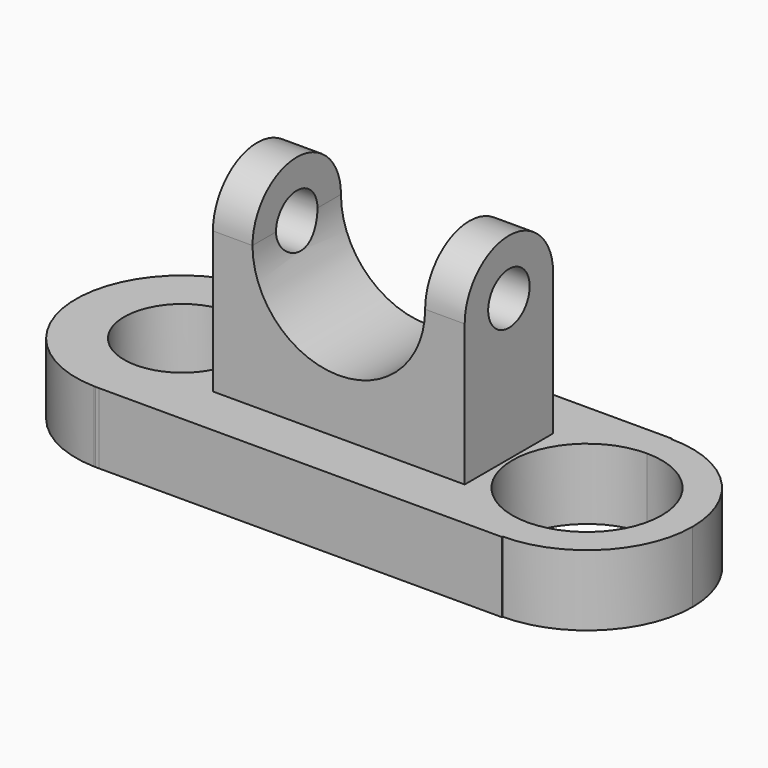
from build123d import *

# Parameters (mm, degrees)
F1_DEPTH  = 76.2
F2_DEPTH  = 25.4
F3_R      = 31.0113659553
F4_DEPTH  = 48.768
F5_W      = 14.2128238031
F5_H      = 19.8651105165
F7_W      = 14.2128238031
F7_H      = 19.8651105165
F9_R      = 9.3175662763
F10_DEPTH = 120.904


with BuildPart() as f1:
    # F0 (on Top) → F1 (new body)
    with BuildSketch(Plane.XY):
        with BuildLine():
            ThreePointArc((-39.4395748653, 19.8651105165), (-35.2913919529, 10.3150682913), (-33.8736140697, 0))
            ThreePointArc((-33.8736140697, 0), (-35.2913919529, -10.3150682913), (-39.4395748653, -19.8651105165))
            Line((-39.4395748653, -19.8651105165), (41.0163370235, -19.8651105165))
            ThreePointArc((41.0163370235, -19.8651105165), (35.3919404434, 0), (41.0163370235, 19.8651105165))
            Line((41.0163370235, 19.8651105165), (-39.4395748653, 19.8651105165))
        make_face()
        with BuildLine():
            ThreePointArc((-39.4395748653, -19.8651105165), (-35.2913919529, -10.3150682913), (-33.8736140697, 0))
            ThreePointArc((-33.8736140697, 0), (-35.2913919529, 10.3150682913), (-39.4395748653, 19.8651105165))
            Line((-39.4395748653, 19.8651105165), (-45.2241897583, 19.8651105165))
            Line((-45.2241897583, 19.8651105165), (-45.2241897583, -19.8651105165))
            Line((-45.2241897583, -19.8651105165), (-39.4395748653, -19.8651105165))
        make_face()
        with BuildLine():
            Line((45.2241897583, 19.8651105165), (41.0163370235, 19.8651105165))
            ThreePointArc((41.0163370235, 19.8651105165), (35.3919404434, 0), (41.0163370235, -19.8651105165))
            Line((41.0163370235, -19.8651105165), (45.2241897583, -19.8651105165))
            Line((45.2241897583, -19.8651105165), (45.2241897583, 19.8651105165))
        make_face()
    extrude(amount=F1_DEPTH)

    # F0 (on Top) → F2 (join)
    with BuildSketch(Plane.XY):
        with BuildLine():
            Line((-45.2241897583, 19.8651105165), (-39.4395748653, 19.8651105165))
            ThreePointArc((-39.4395748653, 19.8651105165), (-53.1034448807, 33.1757028633), (-71.4977306772, 38.2277779281))
            Line((-71.4977306772, 38.2277779281), (-72.7147387814, 38.2277779281))
            ThreePointArc((-72.7147387814, 38.2277779281), (-73.0001282654, 38.2221694419), (-73.2854679227, 38.2144304102))
            Line((-73.2854679227, 38.2144304102), (-73.2854679227, 20.8573796838))
            ThreePointArc((-73.2854679227, 20.8573796838), (-57.7572646523, 15.1831464436), (-51.2155459374, 0))
            ThreePointArc((-51.2155459374, 0), (-57.7572646523, -15.1831464436), (-73.2854679227, -20.8573796838))
            Line((-73.2854679227, -20.8573796838), (-73.2854679227, -38.2144304102))
            ThreePointArc((-73.2854679227, -38.2144304102), (-73.0001282654, -38.2221694419), (-72.7147387814, -38.2277779281))
            Line((-72.7147387814, -38.2277779281), (-71.4977306772, -38.2277779281))
            ThreePointArc((-71.4977306772, -38.2277779281), (-53.1034448807, -33.1757028633), (-39.4395748653, -19.8651105165))
            Line((-39.4395748653, -19.8651105165), (-45.2241897583, -19.8651105165))
            Line((-45.2241897583, -19.8651105165), (-45.2241897583, 19.8651105165))
        make_face()
        with BuildLine():
            ThreePointArc((-71.4977306772, 38.2277779281), (-53.1034448807, 33.1757028633), (-39.4395748653, 19.8651105165))
            Line((-39.4395748653, 19.8651105165), (41.0163370235, 19.8651105165))
            ThreePointArc((41.0163370235, 19.8651105165), (54.80358066, 33.0807990839), (73.2854679227, 37.8935274793))
            Line((73.2854679227, 37.8935274793), (73.2854679227, 38.2277779281))
            Line((73.2854679227, 38.2277779281), (-71.4977306772, 38.2277779281))
        make_face()
        with BuildLine():
            Line((41.0163370235, -19.8651105165), (-39.4395748653, -19.8651105165))
            ThreePointArc((-39.4395748653, -19.8651105165), (-53.1034448807, -33.1757028633), (-71.4977306772, -38.2277779281))
            Line((-71.4977306772, -38.2277779281), (73.2854679227, -38.2277779281))
            Line((73.2854679227, -38.2277779281), (73.2854679227, -37.8935274793))
            ThreePointArc((73.2854679227, -37.8935274793), (54.80358066, -33.0807990839), (41.0163370235, -19.8651105165))
        make_face()
        with BuildLine():
            Line((-72.7147387814, 38.2277779281), (-71.4977306772, 38.2277779281))
            ThreePointArc((-71.4977306772, 38.2277779281), (-72.1062347293, 38.2326206596), (-72.7147387814, 38.2277779281))
        make_face()
        with BuildLine():
            ThreePointArc((73.2854679227, 37.8935274793), (54.80358066, 33.0807990839), (41.0163370235, 19.8651105165))
            Line((41.0163370235, 19.8651105165), (45.2241897583, 19.8651105165))
            Line((45.2241897583, 19.8651105165), (45.2241897583, -19.8651105165))
            Line((45.2241897583, -19.8651105165), (41.0163370235, -19.8651105165))
            ThreePointArc((41.0163370235, -19.8651105165), (54.80358066, -33.0807990839), (73.2854679227, -37.8935274793))
            Line((73.2854679227, -37.8935274793), (73.2854679227, -26.8271780999))
            ThreePointArc((73.2854679227, -26.8271780999), (46.4582898228, 0), (73.2854679227, 26.8271780999))
            Line((73.2854679227, 26.8271780999), (73.2854679227, 37.8935274793))
        make_face()
        with BuildLine():
            ThreePointArc((-72.7147387814, -38.2277779281), (-72.1062347293, -38.2326206596), (-71.4977306772, -38.2277779281))
            Line((-71.4977306772, -38.2277779281), (-72.7147387814, -38.2277779281))
        make_face()
        with BuildLine():
            ThreePointArc((-73.2854679227, 38.2144304102), (-73.0001282654, 38.2221694419), (-72.7147387814, 38.2277779281))
            Line((-72.7147387814, 38.2277779281), (-73.2854679227, 38.2277779281))
            Line((-73.2854679227, 38.2277779281), (-73.2854679227, 38.2144304102))
        make_face()
        with BuildLine():
            ThreePointArc((111.178995402, 0), (100.0802381664, 26.7947702437), (73.2854679227, 37.8935274793))
            Line((73.2854679227, 37.8935274793), (73.2854679227, 26.8271780999))
            ThreePointArc((73.2854679227, 26.8271780999), (92.2551474772, 18.9696795545), (100.1126460226, 0))
            ThreePointArc((100.1126460226, 0), (92.2551474772, -18.9696795545), (73.2854679227, -26.8271780999))
            Line((73.2854679227, -26.8271780999), (73.2854679227, -37.8935274793))
            ThreePointArc((73.2854679227, -37.8935274793), (100.0802381664, -26.7947702437), (111.178995402, 0))
        make_face()
        with BuildLine():
            Line((-73.2854679227, -38.2277779281), (-72.7147387814, -38.2277779281))
            ThreePointArc((-72.7147387814, -38.2277779281), (-73.0001282654, -38.2221694419), (-73.2854679227, -38.2144304102))
            Line((-73.2854679227, -38.2144304102), (-73.2854679227, -38.2277779281))
        make_face()
        with BuildLine():
            Line((-73.2854679227, 20.8573796838), (-73.2854679227, 38.2144304102))
            ThreePointArc((-73.2854679227, 38.2144304102), (-110.3388553889, 0), (-73.2854679227, -38.2144304102))
            Line((-73.2854679227, -38.2144304102), (-73.2854679227, -20.8573796838))
            ThreePointArc((-73.2854679227, -20.8573796838), (-92.9969235211, 0), (-73.2854679227, 20.8573796838))
        make_face()
    extrude(amount=F2_DEPTH)

    # F3 (on face) → F4 (cut)
    with BuildSketch(Plane.XZ.offset(19.8651105165)):
        with Locations((0, 76.2)):
            Circle(F3_R)
    extrude(amount=-F4_DEPTH, mode=Mode.SUBTRACT)

    # F5 (on face) → F6 (revolve)
    with BuildSketch(Plane.XY.offset(76.2)):
        with Locations((-38.1177778568, 9.9325552583)):
            Rectangle(F5_W, F5_H)
    revolve(axis=Axis((-38.1177778568, 0, 76.2), (1, 0, 0)))

    # F7 (on face) → F8 (revolve)
    with BuildSketch(Plane.XY.offset(76.2)):
        with Locations((38.1177778568, 9.9325552583)):
            Rectangle(F7_W, F7_H)
    revolve(axis=Axis((38.1177778568, 0, 76.2), (1, 0, 0)))

    # F9 (on face) → F10 (cut)
    with BuildSketch(Plane.YZ.offset(45.2241897583)):
        with Locations((0, 76.2)):
            Circle(F9_R)
    extrude(amount=-F10_DEPTH, mode=Mode.SUBTRACT)


solid = f1.part
